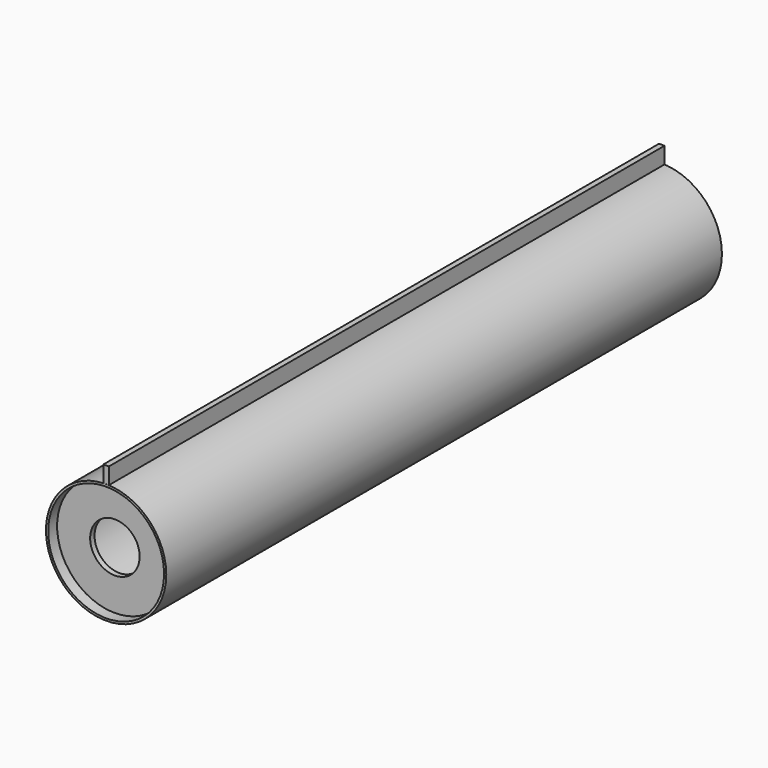
from build123d import *

# Parameters (mm, degrees)
F1_R          = 105.55
F2_DEPTH      = 632.5
F3_START      = 602.5
F1_R_2        = 105.25
F1_R_3        = 45.1
F3_DEPTH      = 10
F4_DEPTH      = 632.5
F4_DEPTH_BACK = 632.5


with BuildPart() as f2:
    # F1 (on Front) → F2 (new body, symmetric)
    with BuildSketch(Plane.XZ):
        with BuildLine():
            ThreePointArc((0, 109.55), (-77.463547879, -77.463547879), (109.55, 0))
            ThreePointArc((109.55, 0), (77.463547879, 77.463547879), (0, 109.55))
        make_face()
        Circle(F1_R, mode=Mode.SUBTRACT)
    extrude(amount=F2_DEPTH, both=True)


with BuildPart() as f3:
    # F1 (on Front) → F3 (new body)
    with BuildSketch(Plane.XZ.offset(F3_START)):
        Circle(F1_R_2)
        Circle(F1_R_3, mode=Mode.SUBTRACT)
    extrude(amount=F3_DEPTH)


with BuildPart() as f4:
    # F1 (on Front) → F4 (new body, two sides)
    with BuildSketch(Plane.XZ) as f4_sk:
        Polygon((-5, 109.55), (0, 109.55), (5, 109.55), (5, 139.55), (-5, 139.55), align=None)
    extrude(amount=F4_DEPTH)
    extrude(f4_sk.sketch, amount=-F4_DEPTH_BACK)


solid = Compound([f2.part, f3.part, f4.part])
